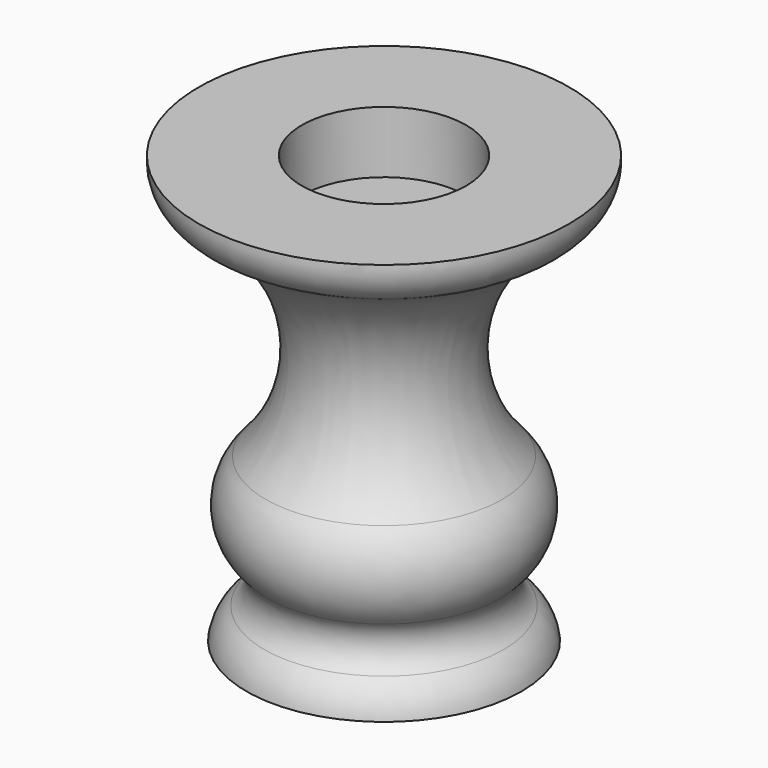
from build123d import *


with BuildPart() as f1:
    # F0 (on Front) → F1 (revolve)
    with BuildSketch(Plane.XZ):
        with BuildLine():
            Line((0, 166.624), (0, 0))
            Line((0, 0), (0, -352.298))
            Line((0, -352.298), (134.239, -352.298))
            Line((134.239, -352.298), (134.239, -430.022))
            Line((134.239, -430.022), (224.604496, -430.022))
            ThreePointArc((224.604496, -430.022), (215.021889, -401.859149), (195.503543, -379.409055))
            ThreePointArc((195.503543, -379.409055), (176.878926, -344.15539), (190.957997, -306.852883))
            ThreePointArc((190.957997, -306.852883), (220.997872, -235.94093), (193.391806, -164.046534))
            ThreePointArc((193.391806, -164.046534), (136.113903, 34.381675), (262.333799, 197.853539))
            ThreePointArc((262.333799, 197.853539), (293.322046, 226.516887), (302.514, 267.716))
            Line((302.514, 267.716), (134.239, 267.716))
            Line((134.239, 267.716), (134.239, 166.624))
            Line((134.239, 166.624), (0, 166.624))
        make_face()
    revolve(axis=Axis((0, 0, -176.149), (0, 0, -1)))


solid = f1.part
